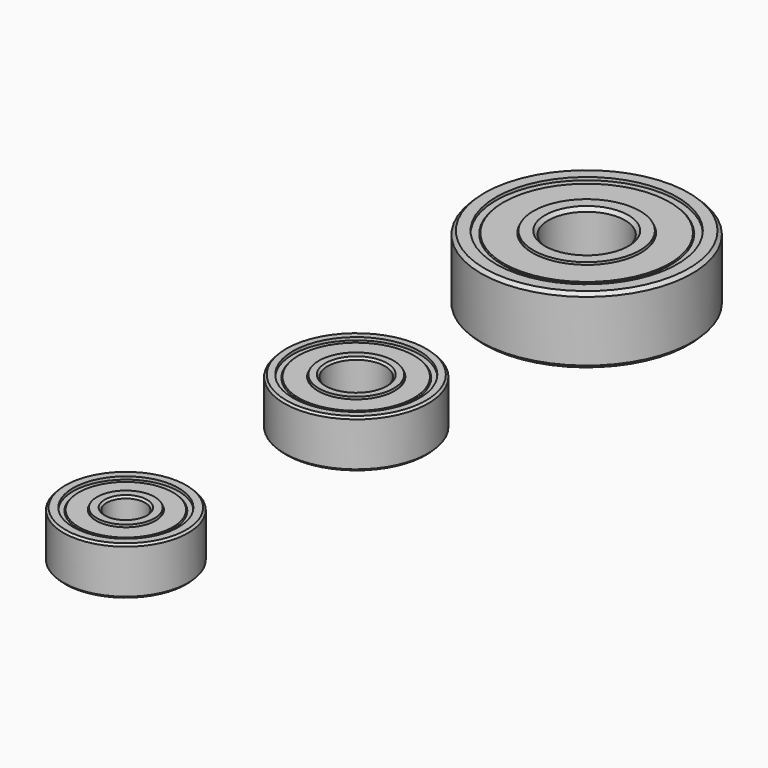
from build123d import *


with BuildPart() as ballbearing_22x8x7_mm:
    # Sketch → Revolution (revolve)
    with BuildSketch(Plane.XZ):
        Polygon((-11, 3.146447), (-11, -3.146447), (-10.646447, -3.5), (-9.45, -3.5), (-9.45, -3.2), (-8.75, -3.2), (-8.65, -3.3), (-5.65, -3.3), (-5.55, -3.2), (-5.55, -3.5), (-4.353553, -3.5), (-4, -3.146447), (-4, 3.146447), (-4.353553, 3.5), (-5.55, 3.5), (-5.55, 3.2), (-5.65, 3.3), (-8.65, 3.3), (-8.75, 3.2), (-9.45, 3.2), (-9.45, 3.5), (-10.646447, 3.5), align=None)
    revolve(axis=Axis((0, 0, 0), (0, 0, 1)))


with BuildPart() as ballbearing_15x6x5_mm:
    # Sketch001 → Revolution001 (revolve)
    with BuildSketch(Plane.XZ):
        Polygon((-7.5, 2.287868), (-7.5, -2.287868), (-7.287868, -2.5), (-6.6, -2.5), (-6.6, -2.2), (-6.1, -2.2), (-6, -2.3), (-4, -2.3), (-3.9, -2.2), (-3.9, -2.5), (-3.212132, -2.5), (-3, -2.287868), (-3, 2.287868), (-3.212132, 2.5), (-3.9, 2.5), (-3.9, 2.2), (-4, 2.3), (-6, 2.3), (-6.1, 2.2), (-6.6, 2.2), (-6.6, 2.5), (-7.287868, 2.5), align=None)
    revolve(axis=Axis((0, 0, 0), (0, 0, 1)))


with BuildPart() as ballbearing_15x6x5_mm_1:
    # Body001 placement: moved
    add(ballbearing_15x6x5_mm.part.moved(Location((0, -30, 0))))


with BuildPart() as ballbearing_13x4x5_mm:
    # Sketch002 → Revolution002 (revolve)
    with BuildSketch(Plane.XZ):
        Polygon((-6.5, 2.287868), (-6.5, -2.287868), (-6.287868, -2.5), (-5.5, -2.5), (-5.5, -2.2), (-5, -2.2), (-4.9, -2.3), (-3.1, -2.3), (-3, -2.2), (-3, -2.5), (-2.212132, -2.5), (-2, -2.287868), (-2, 2.287868), (-2.212132, 2.5), (-3, 2.5), (-3, 2.2), (-3.1, 2.3), (-4.9, 2.3), (-5, 2.2), (-5.5, 2.2), (-5.5, 2.5), (-6.287868, 2.5), align=None)
    revolve(axis=Axis((0, 0, 0), (0, 0, 1)))


with BuildPart() as ballbearing_13x4x5_mm_1:
    # Body002 placement: moved
    add(ballbearing_13x4x5_mm.part.moved(Location((0, -60, 0))))


solid = Compound([ballbearing_22x8x7_mm.part, ballbearing_15x6x5_mm_1.part, ballbearing_13x4x5_mm_1.part])
